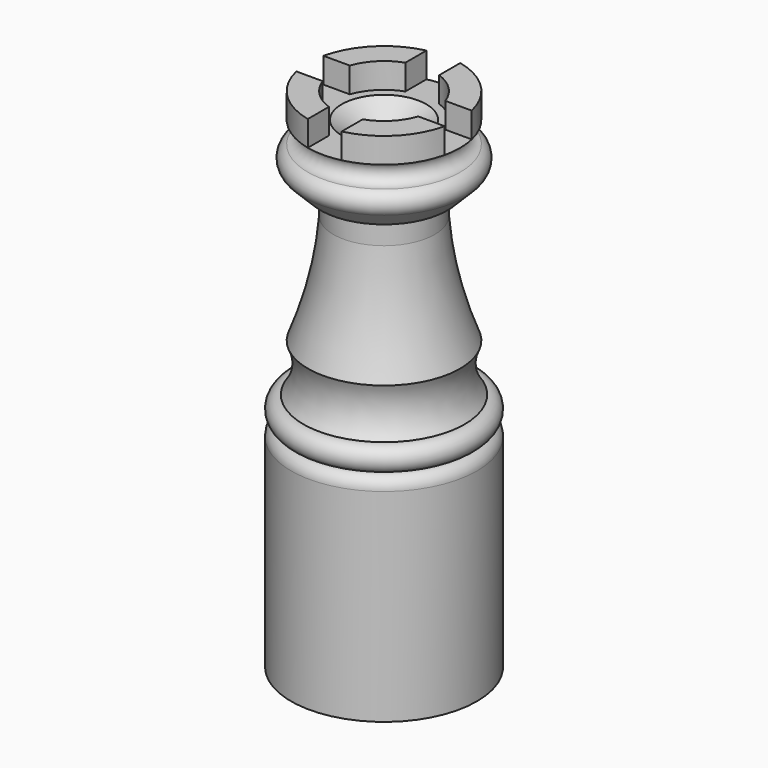
from build123d import *

# Parameters (mm, degrees)
F0_R     = 11
F1_DEPTH = 24
F5_DEPTH = 3


with BuildPart() as f1:
    # F0 (on Top) → F1 (new body)
    with BuildSketch(Plane.XY):
        Circle(F0_R)
    extrude(amount=F1_DEPTH)

    # F2 (on Right) → F3 (revolve)
    with BuildSketch(Plane.YZ):
        with BuildLine():
            Line((0, 24), (11, 24))
            ThreePointArc((11, 24), (10.5722886113, 25.0325866354), (9.5397019759, 25.4602980241))
            ThreePointArc((9.5397019759, 25.4602980241), (11, 26.9205960482), (9.5397019759, 28.3808940724))
            ThreePointArc((9.5397019759, 28.3808940724), (8.4915459843, 31.1156926618), (9, 34))
            ThreePointArc((9, 34), (7.0062955662, 40.3860682076), (6, 47))
            Line((6, 47), (6, 50))
            Line((6, 50), (7.5, 50))
            Line((7.5, 50), (9.5, 52))
            ThreePointArc((9.5, 52), (9.9090924007, 53.3603723264), (9, 54.4519402197))
            ThreePointArc((9, 54.4519402197), (7.7259701099, 55.7259701099), (9, 57))
            Line((9, 57), (9, 60))
            Line((9, 60), (0, 60))
            Line((0, 60), (0, 24))
        make_face()
    revolve(axis=Axis((0, 0, 42), (0, 0, -1)))

    # F4 (on face) → F5 (cut)
    with BuildSketch(Plane.XY.offset(60)):
        with BuildLine():
            Line((-8.7749643874, -2), (-5.6568542495, -2))
            ThreePointArc((-5.6568542495, -2), (-4.2426406871, -4.2426406871), (-2, -5.6568542495))
            Line((-2, -5.6568542495), (-2, -8.7749643874))
            ThreePointArc((-2, -8.7749643874), (0, -9), (2, -8.7749643874))
            Line((2, -8.7749643874), (2, -5.6568542495))
            ThreePointArc((2, -5.6568542495), (4.2426406871, -4.2426406871), (5.6568542495, -2))
            Line((5.6568542495, -2), (8.7749643874, -2))
            ThreePointArc((8.7749643874, -2), (8.9435641521, -1.0063102189), (9, 0))
            ThreePointArc((9, 0), (8.9435641521, 1.0063102189), (8.7749643874, 2))
            Line((8.7749643874, 2), (5.6568542495, 2))
            ThreePointArc((5.6568542495, 2), (4.2426406871, 4.2426406871), (2, 5.6568542495))
            Line((2, 5.6568542495), (2, 8.7749643874))
            ThreePointArc((2, 8.7749643874), (0, 9), (-2, 8.7749643874))
            Line((-2, 8.7749643874), (-2, 5.6568542495))
            ThreePointArc((-2, 5.6568542495), (-4.2426406871, 4.2426406871), (-5.6568542495, 2))
            Line((-5.6568542495, 2), (-8.7749643874, 2))
            ThreePointArc((-8.7749643874, 2), (-9, 0), (-8.7749643874, -2))
        make_face()
    extrude(amount=-F5_DEPTH, mode=Mode.SUBTRACT)

    # F6 (on Right) → F7 (revolve, cut)
    with BuildSketch(Plane.YZ):
        Polygon((5, 57), (0, 57), (0, 53.9956969049), align=None)
    revolve(axis=Axis((0, 0, 55.4978484524), (0, 0, -1)), mode=Mode.SUBTRACT)


solid = f1.part
